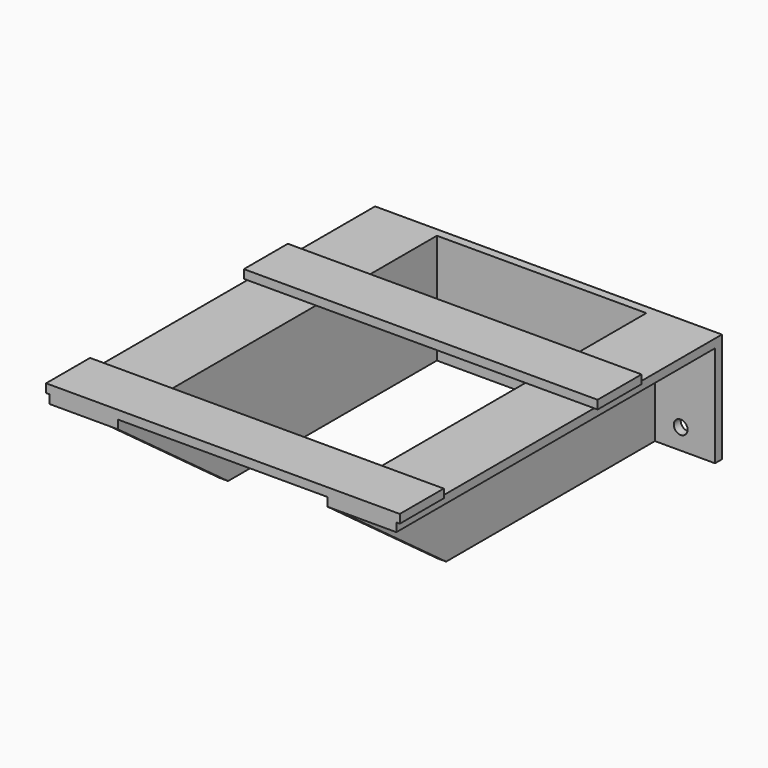
from build123d import *

# Parameters (mm, degrees)
F0_W     = 320.675
F0_H     = 101.6
F1_DEPTH = 7.9375
F3_D     = 12.7
F5_DEPTH = 368.3
F7_DEPTH = 265.1135
F8_W     = 327.025
F8_H     = 50.8
F9_DEPTH = 7.9375


with BuildPart() as f1:
    # F0 (on Front) → F1 (new body)
    with BuildSketch(Plane.XZ):
        with Locations((0, -50.8)):
            Rectangle(F0_W, F0_H)
    extrude(amount=F1_DEPTH)

    # F3 (through all)
    with Locations(Plane.XZ.offset(7.9375)):
        with Locations((-128.5875, -19.05), (128.5875, -19.05), (128.5875, -82.55), (-128.5875, -82.55)):
            Hole(F3_D / 2)

    # F4 (on face) → F5 (join)
    with BuildSketch(Plane.XZ.offset(7.9375)):
        Polygon((-96.8375, 0), (-160.3375, 0), (-160.3375, -7.9375), (-104.775, -7.9375), (-104.775, -101.6), (-96.8375, -101.6), align=None)
        Polygon((160.3375, 0), (96.8375, 0), (96.8375, -101.6), (104.775, -101.6), (104.775, -7.9375), (160.3375, -7.9375), align=None)
    extrude(amount=F5_DEPTH)

    # F6 (on face) → F7 (cut, through all)
    with BuildSketch(Plane(origin=(-104.775, 0, 0), x_dir=(0, -1, 0), z_dir=(-1, 0, 0))):
        Polygon((376.2375, -101.6), (376.2375, -7.9375), (249.2375, -101.6), align=None)
    extrude(amount=-F7_DEPTH, mode=Mode.SUBTRACT)

    # F8 (on face) → F9 (join)
    with BuildSketch(Plane.XY):
        with Locations((0, -122.2375)):
            Rectangle(F8_W, F8_H)
        with Locations((0, -350.8375)):
            Rectangle(F8_W, F8_H)
    extrude(amount=F9_DEPTH)


solid = f1.part
